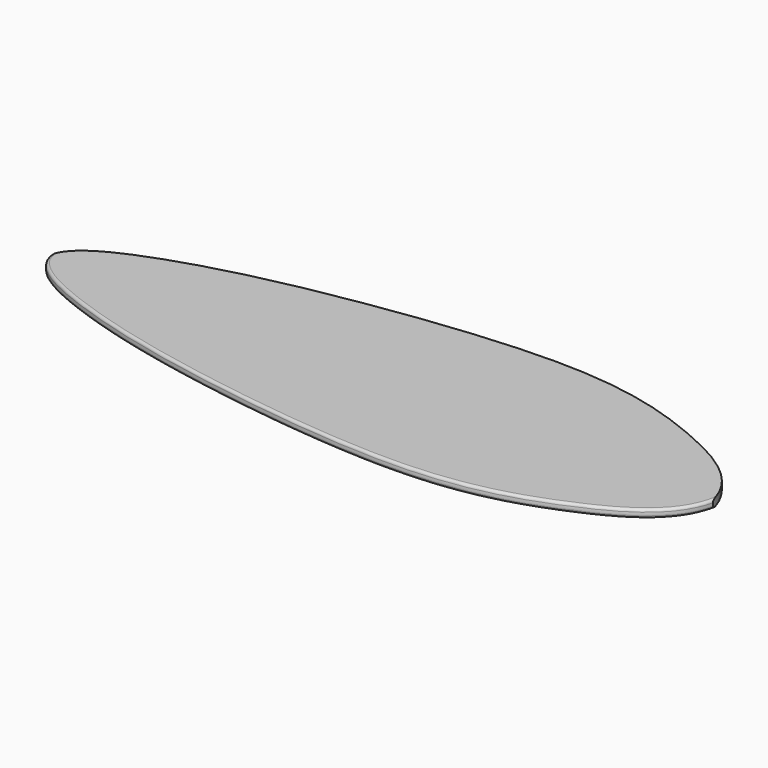
from build123d import *

# Parameters (mm, degrees)
PAD002_DEPTH = 19.05
FILLET_R     = 6.35
FILLET001_R  = 5.08


with BuildPart() as part:
    # Sketch003 → Pad002 (new body)
    with BuildSketch(Plane.XY):
        with BuildLine():
            add(Edge.make_bspline(
                [(-1143, 0), (-1133.960063, 47.220342), (-999.419108, 118.664751), (-655.351562, 209.348557), (-45.877184, 284.203379), (267.581783, 186.903179), (435.485995, 90.209124), (457.2, 0)],
                knots=[0, 0, 0, 0, 0.2, 0.4, 0.6, 0.8, 1, 1, 1, 1], degree=3))
            add(Edge.make_bspline(
                [(-1143, 0), (-1133.960063, -47.220342), (-999.419108, -118.664751), (-655.351562, -209.348557), (-45.877184, -284.203379), (267.581783, -186.903179), (435.485995, -90.209124), (457.2, 0)],
                knots=[0, 0, 0, 0, 0.2, 0.4, 0.6, 0.8, 1, 1, 1, 1], degree=3))
        make_face()
    extrude(amount=PAD002_DEPTH)

    # Fillet
    fillet_edges = [part.edges().sort_by_distance(p)[0] for p in [
        (-326.881297, -245.263191, 19.05),
    ]]
    fillet(fillet_edges, radius=FILLET_R)

    # Fillet001
    fillet001_edges = [part.edges().sort_by_distance(p)[0] for p in [
        (-326.881297, -245.263191, 0),
    ]]
    fillet(fillet001_edges, radius=FILLET001_R)


solid = part.part
